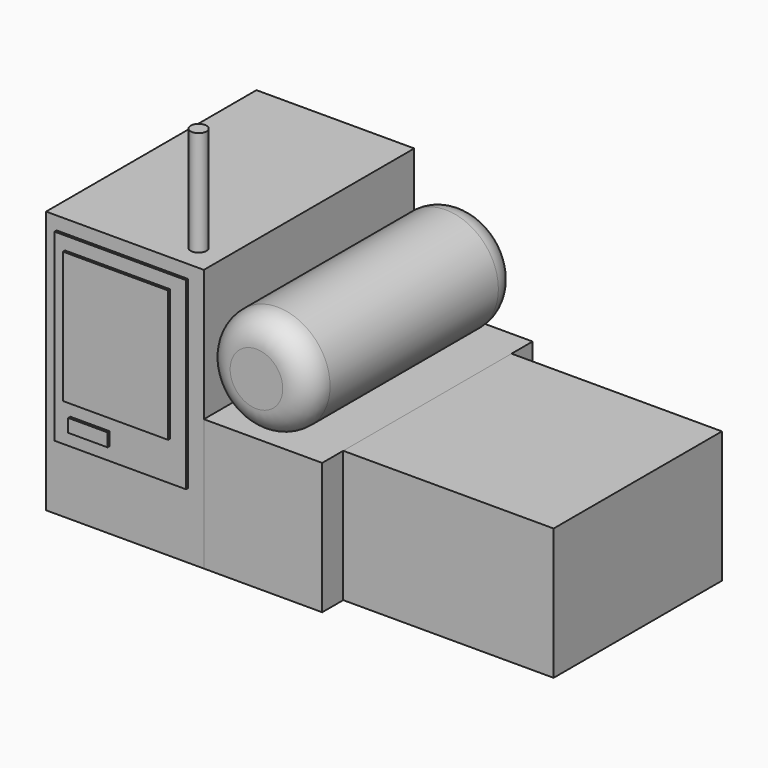
from build123d import *

# Parameters (mm, degrees)
BOX_W             = 6
BOX_H             = 10
BOX_DEPTH         = 10
BOX001_W          = 4.5
BOX001_H          = 10
BOX001_DEPTH      = 5
CYLINDER_R        = 2
CYLINDER_DEPTH    = 10
FILLET_R          = 1
BOX002_W          = 4
BOX002_H          = 0.1
BOX002_DEPTH      = 5
BOX003_W          = 5
BOX003_H          = 0.2
BOX003_DEPTH      = 7
BOX004_W          = 1.5
BOX004_H          = 0.1
BOX004_DEPTH      = 0.5
CYLINDER001_R     = 0.3
CYLINDER001_DEPTH = 5
BOX005_W          = 8
BOX005_H          = 8
BOX005_DEPTH      = 5


with BuildPart() as obj1:
    # Box → Box (new body)
    with BuildSketch(Plane.XY):
        with Locations((3, 5)):
            Rectangle(BOX_W, BOX_H)
    extrude(amount=BOX_DEPTH)


with BuildPart() as obj2:
    # Box001 → Box001 (new body)
    with BuildSketch(Plane(origin=(6, 0, 0), x_dir=(1, 0, 0), z_dir=(0, 0, 1))):
        with Locations((2.25, 5)):
            Rectangle(BOX001_W, BOX001_H)
    extrude(amount=BOX001_DEPTH)


with BuildPart() as combustible:
    # Cylinder → Cylinder (new body)
    with BuildSketch(Plane(origin=(8, 10, 7), x_dir=(1, 0, 0), z_dir=(0, -1, 0))):
        Circle(CYLINDER_R)
    extrude(amount=CYLINDER_DEPTH)

    # Fillet
    fillet_edges = [combustible.edges().sort_by_distance(p)[0] for p in [
        (6, 10, 7),
        (6, 0, 7),
    ]]
    fillet(fillet_edges, radius=FILLET_R)


with BuildPart() as obj3:
    # Box002 → Box002 (new body)
    with BuildSketch(Plane(origin=(0.8, -0.2, 4), x_dir=(1, 0, 0), z_dir=(0, 0, 1))):
        with Locations((2, 0.05)):
            Rectangle(BOX002_W, BOX002_H)
    extrude(amount=BOX002_DEPTH)


with BuildPart() as porta:
    # Box003 → Box003 (new body)
    with BuildSketch(Plane(origin=(0.4, -0.1, 2.5), x_dir=(1, 0, 0), z_dir=(0, 0, 1))):
        with Locations((2.5, 0.1)):
            Rectangle(BOX003_W, BOX003_H)
    extrude(amount=BOX003_DEPTH)


with BuildPart() as obj4:
    # Box004 → Box004 (new body)
    with BuildSketch(Plane(origin=(1, -0.2, 3), x_dir=(1, 0, 0), z_dir=(0, 0, 1))):
        with Locations((0.75, 0.05)):
            Rectangle(BOX004_W, BOX004_H)
    extrude(amount=BOX004_DEPTH)


with BuildPart() as cilindre001:
    # Cylinder001 → Cylinder001 (new body)
    with BuildSketch(Plane(origin=(5, 1, 9), x_dir=(1, 0, 0), z_dir=(0, 0, 1))):
        Circle(CYLINDER001_R)
    extrude(amount=CYLINDER001_DEPTH)


with BuildPart() as cub:
    # Box005 → Box005 (new body)
    with BuildSketch(Plane(origin=(10.5, 1, 0), x_dir=(1, 0, 0), z_dir=(0, 0, 1))):
        with Locations((4, 4)):
            Rectangle(BOX005_W, BOX005_H)
    extrude(amount=BOX005_DEPTH)


solid = Compound([obj1.part, obj2.part, combustible.part, obj3.part, porta.part, obj4.part, cilindre001.part, cub.part])
